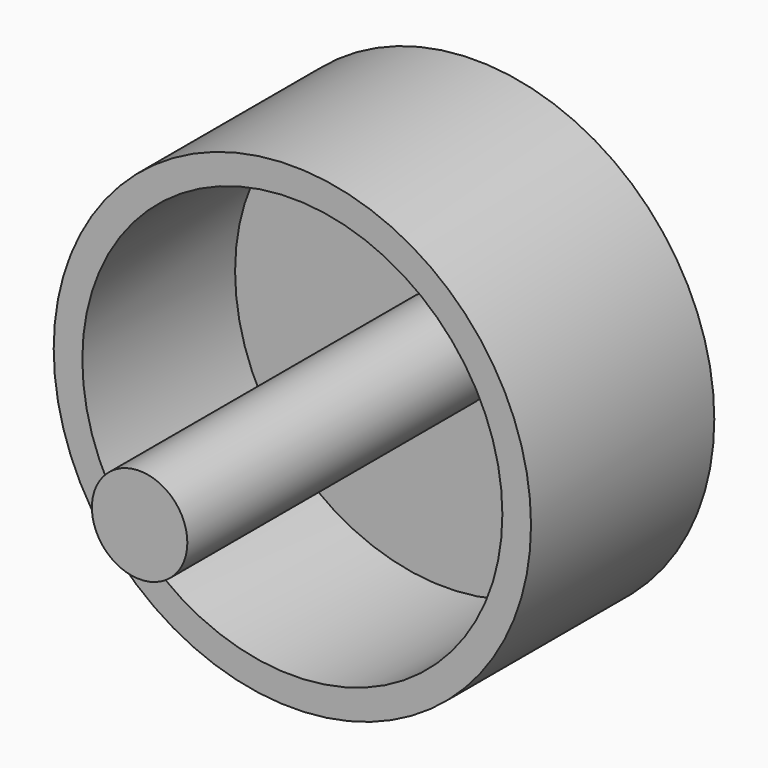
from build123d import *

# Parameters (mm, degrees)
F0_R     = 12.5
F1_DEPTH = 2
F2_R     = 12.5
F2_R_2   = 11
F3_DEPTH = 10
F4_R     = 2.5
F5_DEPTH = 20


with BuildPart() as f1:
    # F0 (on Front) → F1 (new body)
    with BuildSketch(Plane.XZ):
        Circle(F0_R)
    extrude(amount=F1_DEPTH)

    # F2 (on face) → F3 (join)
    with BuildSketch(Plane.XZ.offset(2)):
        Circle(F2_R)
        Circle(F2_R_2, mode=Mode.SUBTRACT)
    extrude(amount=F3_DEPTH)

    # F4 (on face) → F5 (join)
    with BuildSketch(Plane.XZ.offset(2)):
        Circle(F4_R)
    extrude(amount=F5_DEPTH)


solid = f1.part
